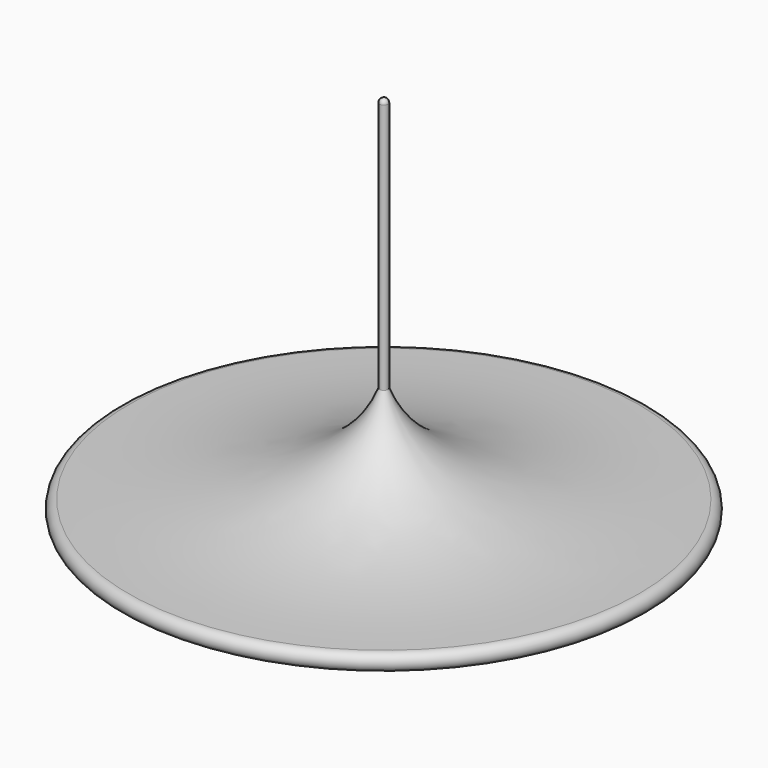
from build123d import *


with BuildPart() as part:
    # Sketch → Revolution (revolve)
    with BuildSketch(Plane.XZ):
        with BuildLine():
            ThreePointArc((0, -0.5), (0.353553, -0.353553), (0.5, 0))
            add(Edge.make_bspline(
                [(0.5, 0), (2.296834, 6.5), (30, 6.5)],
                knots=[0, 0, 0, 1, 1, 1], degree=2))
            ThreePointArc((30, 6.5), (31, 7.5), (30, 8.5))
            add(Edge.make_bspline(
                [(0.5, 20), (4.831676, 8.5), (30, 8.5)],
                knots=[0, 0, 0, 1, 1, 1], degree=2))
            Line((0.5, 20), (0.5, 49.5))
            ThreePointArc((0.5, 49.5), (0.353553, 49.853553), (0, 50))
            Line((0, 50), (0, -0.5))
        make_face()
    revolve(axis=Axis((0, 0, 0), (0, 0, 1)))


solid = part.part
